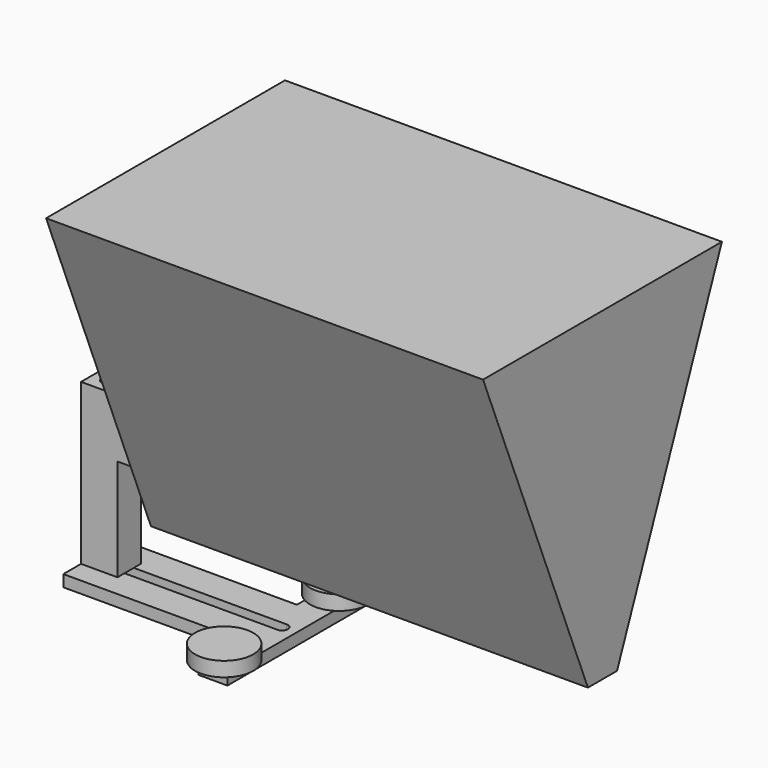
from build123d import *

# Parameters (mm, degrees)
F1_DEPTH  = 300
F2_W      = 20
F2_H      = 40
F3_DEPTH  = 50
F5_W      = 25
F5_H      = 20
F6_DEPTH  = 70
F7_R      = 4
F8_DEPTH  = 120
F10_DEPTH = 8
F11_R     = 20
F12_DEPTH = 10
F14_DEPTH = 8


with BuildPart() as f1:
    # F0 (on Right) → F1 (new body)
    with BuildSketch(Plane.YZ):
        Polygon((0, 222.757817), (-102.5, 222.757817), (-12.5, 0), (0, 0), (12.5, 0), (102.5, 222.757817), align=None)
    extrude(amount=F1_DEPTH)

    # F2 (on face) → F3 (join)
    with BuildSketch(Plane(origin=(0, 0, 0), x_dir=(0, -1, 0), z_dir=(-1, 0, 0))):
        with Locations((0, 50)):
            Rectangle(F2_W, F2_H)
    extrude(amount=F3_DEPTH)

    # F5 (on face) → F6 (join)
    with BuildSketch(Plane(origin=(0, 0, 30), x_dir=(1, 0, 0), z_dir=(0, 0, -1))):
        with Locations((-37.5, 0)):
            Rectangle(F5_W, F5_H)
    extrude(amount=F6_DEPTH)

    # F7 (on face) → F8 (cut)
    with BuildSketch(Plane.XY.offset(70)):
        with Locations((-40, 0)):
            Circle(F7_R)
    extrude(amount=-F8_DEPTH, mode=Mode.SUBTRACT)

    # F9 (on face) → F10 (join)
    with BuildSketch(Plane(origin=(0, 0, -40), x_dir=(1, 0, 0), z_dir=(0, 0, -1))):
        Polygon((-50, 0), (-50, -25.201352), (70, -25.201352), (70, -59.376635), (90, -59.376635), (90, 0), (90, 59.376635), (70, 59.376635), (70, 25.201352), (-50, 25.201352), align=None)
    extrude(amount=F10_DEPTH)

    # F11 (on face) → F12 (join)
    with BuildSketch(Plane.XY.offset(-40)):
        with Locations((79.756841, -49.376635)):
            Circle(F11_R)
        with Locations((79.756841, 49.376635)):
            Circle(F11_R)
    extrude(amount=F12_DEPTH)

    # F13 (on face) → F14 (cut)
    with BuildSketch(Plane(origin=(0, 0, -48), x_dir=(1, 0, 0), z_dir=(0, 0, -1))):
        with BuildLine():
            ThreePointArc((80, -4), (84, 0), (80, 4))
            Line((80, 4), (-40, 4))
            ThreePointArc((-40, 4), (-44, 0), (-40, -4))
            Line((-40, -4), (80, -4))
        make_face()
    extrude(amount=-F14_DEPTH, mode=Mode.SUBTRACT)


solid = f1.part
